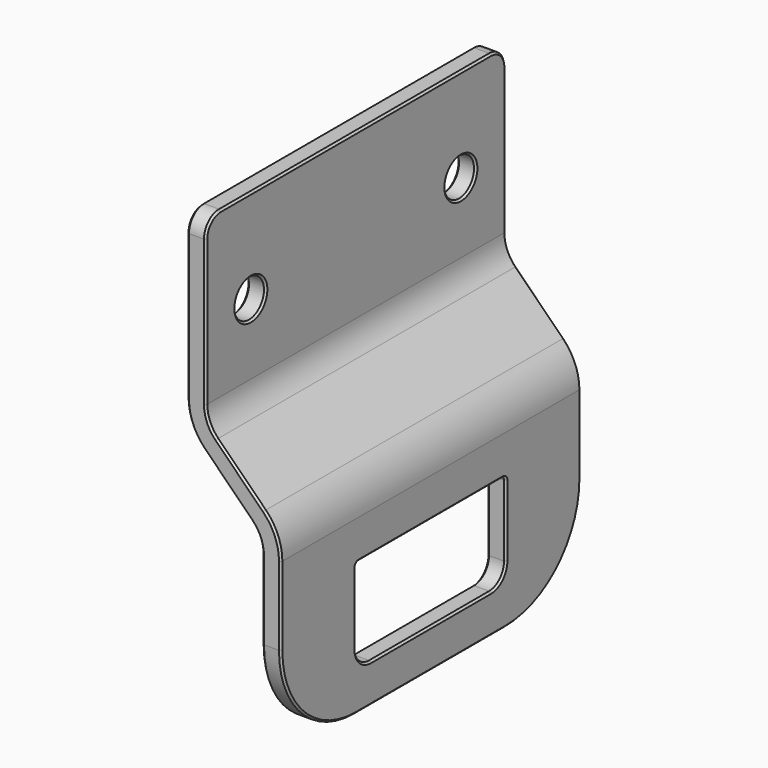
from build123d import *

# Parameters (mm, degrees)
F1_DEPTH = 10
F2_R     = 5
F3_R     = 1
F4_DEPTH = 25
F5_R     = 1
F7_DEPTH = 1
F8_R     = 0.2
F9_SIZE  = 0.1


with BuildPart() as f1:
    # F0 (on Front) → F1 (new body, symmetric)
    with BuildSketch(Plane.XZ):
        with BuildLine():
            Line((0, 9.1715728753), (0, 0))
            Line((0, 0), (1, 0))
            Line((1, 0), (1, 9.1715728753))
            ThreePointArc((1, 9.1715728753), (0.7716385975, 10.3196231723), (0.1213203436, 11.2928932188))
            Line((0.1213203436, 11.2928932188), (-2.4142135624, 13.8284271247))
            ThreePointArc((-2.4142135624, 13.8284271247), (-2.847759065, 14.4772738224), (-3, 15.2426406871))
            Line((-3, 15.2426406871), (-3, 24))
            Line((-3, 24), (-4, 24))
            Line((-4, 24), (-4, 15.2426406871))
            ThreePointArc((-4, 15.2426406871), (-3.7716385975, 14.09459039), (-3.1213203436, 13.1213203436))
            Line((-3.1213203436, 13.1213203436), (-0.5857864376, 10.5857864376))
            ThreePointArc((-0.5857864376, 10.5857864376), (-0.152240935, 9.93693974), (0, 9.1715728753))
        make_face()
    extrude(amount=F1_DEPTH, both=True)

    # F2
    f2_edges = [f1.edges().sort_by_distance(p)[0] for p in [
        (0.5, -10, 0),
        (0.5, 10, 0),
    ]]
    fillet(f2_edges, radius=F2_R)

    # F3 (on face) → F4 (cut)
    with BuildSketch(Plane.YZ.offset(-3)):
        with Locations((-7, 19)):
            Circle(F3_R)
        with Locations((7, 19)):
            Circle(F3_R)
    extrude(amount=-F4_DEPTH, mode=Mode.SUBTRACT)

    # F5
    f5_edges = [f1.edges().sort_by_distance(p)[0] for p in [
        (-3.5, -10, 24),
        (-3.5, 10, 24),
    ]]
    fillet(f5_edges, radius=F5_R)

    # F6 (on face) → F7 (cut, through all)
    with BuildSketch(Plane.YZ.offset(1)):
        with BuildLine():
            Line((-4, 2.0857864376), (4, 2.0857864376))
            ThreePointArc((4, 2.0857864376), (4.7071067812, 2.3786796564), (5, 3.0857864376))
            Line((5, 3.0857864376), (5, 7.0857864376))
            Line((5, 7.0857864376), (-5, 7.0857864376))
            Line((-5, 7.0857864376), (-5, 3.0857864376))
            ThreePointArc((-5, 3.0857864376), (-4.7071067812, 2.3786796564), (-4, 2.0857864376))
        make_face()
    extrude(amount=-F7_DEPTH, mode=Mode.SUBTRACT)

    # F8
    f8_edges = [f1.edges().sort_by_distance(p)[0] for p in [
        (0.5, 5, 7.085786),
        (0.5, -5, 7.085786),
    ]]
    fillet(f8_edges, radius=F8_R)

    # F9
    f9_edges = [f1.edges().sort_by_distance(p)[0] for p in [
        (1, 8.535534, 1.464466),
        (1, 0, 7.085786),
        (-3, 6, 19),
        (-3, -8, 19),
        (-4, -8, 19),
        (-4, 6, 19),
        (-3.771639, -10, 14.09459),
        (0, -5, 4.985786),
    ]]
    chamfer(f9_edges, length=F9_SIZE)


solid = f1.part
